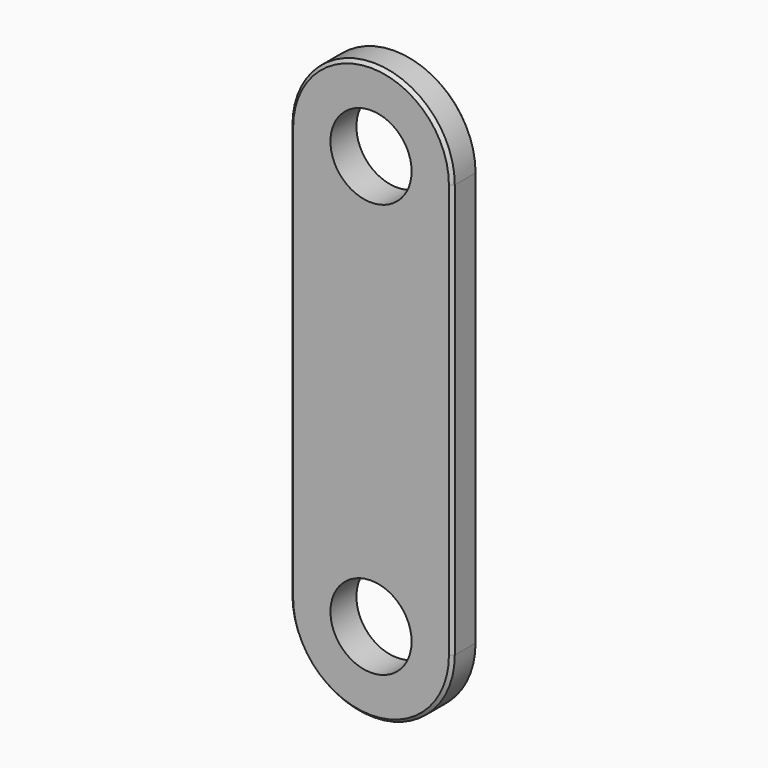
from build123d import *

# Parameters (mm, degrees)
F1_DEPTH = 20
F2_SIZE2 = 2
F2_SIZE  = 2


with BuildPart() as f1:
    # F0 (on Front) → F1 (new body)
    with BuildSketch(Plane.XZ):
        with BuildLine():
            Line((25, 127.5), (50, 127.5))
            ThreePointArc((50, 127.5), (0, 177.5), (-50, 127.5))
            Line((-50, 127.5), (-25, 127.5))
            ThreePointArc((-25, 127.5), (0, 152.5), (25, 127.5))
        make_face()
        with BuildLine():
            ThreePointArc((-50, -127.5), (0, -177.5), (50, -127.5))
            Line((50, -127.5), (25, -127.5))
            ThreePointArc((25, -127.5), (0, -152.5), (-25, -127.5))
            Line((-25, -127.5), (-50, -127.5))
        make_face()
        with BuildLine():
            Line((50, -127.5), (50, 127.5))
            Line((50, 127.5), (25, 127.5))
            ThreePointArc((25, 127.5), (0, 102.5), (-25, 127.5))
            Line((-25, 127.5), (-50, 127.5))
            Line((-50, 127.5), (-50, -127.5))
            Line((-50, -127.5), (-25, -127.5))
            ThreePointArc((-25, -127.5), (0, -102.5), (25, -127.5))
            Line((25, -127.5), (50, -127.5))
        make_face()
    extrude(amount=F1_DEPTH)

    # F2
    f2_edges = [f1.edges().sort_by_distance(p)[0] for p in [
        (0, 0, -177.5),
        (-50, 0, 0),
        (0, 0, 177.5),
        (50, 0, 0),
        (50, -20, 0),
        (0, -20, -177.5),
        (-50, -20, 0),
        (0, -20, 177.5),
    ]]
    chamfer(f2_edges, length=F2_SIZE, length2=F2_SIZE2)


solid = f1.part
